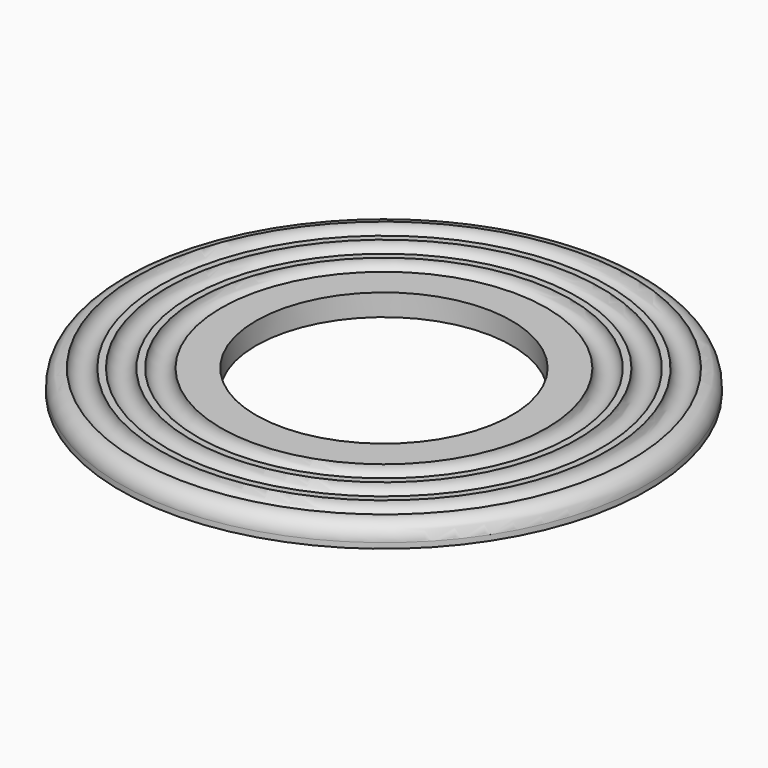
from build123d import *


with BuildPart() as f1:
    # F0 (on Front) → F1 (revolve)
    with BuildSketch(Plane.XZ):
        with BuildLine():
            Line((-48.5, 0), (-23.5, 0))
            Line((-23.5, 0), (-23.5, 4))
            Line((-23.5, 4), (-29.911752, 4))
            ThreePointArc((-29.911752, 4), (-32.096745, 1.815006), (-34.281739, 4))
            Line((-34.281739, 4), (-35.521759, 4))
            ThreePointArc((-35.521759, 4), (-37.706752, 1.815006), (-39.891746, 4))
            Line((-39.891746, 4), (-41.131766, 4))
            ThreePointArc((-41.131766, 4), (-43.316759, 1.815006), (-45.501753, 3.999999))
            ThreePointArc((-45.501753, 3.999999), (-47.62194, 3.120701), (-48.5, 1))
            Line((-48.5, 1), (-48.5, 0))
        make_face()
    revolve(axis=Axis((0, 0, 1.917433), (0, 0, 1)))


solid = f1.part
